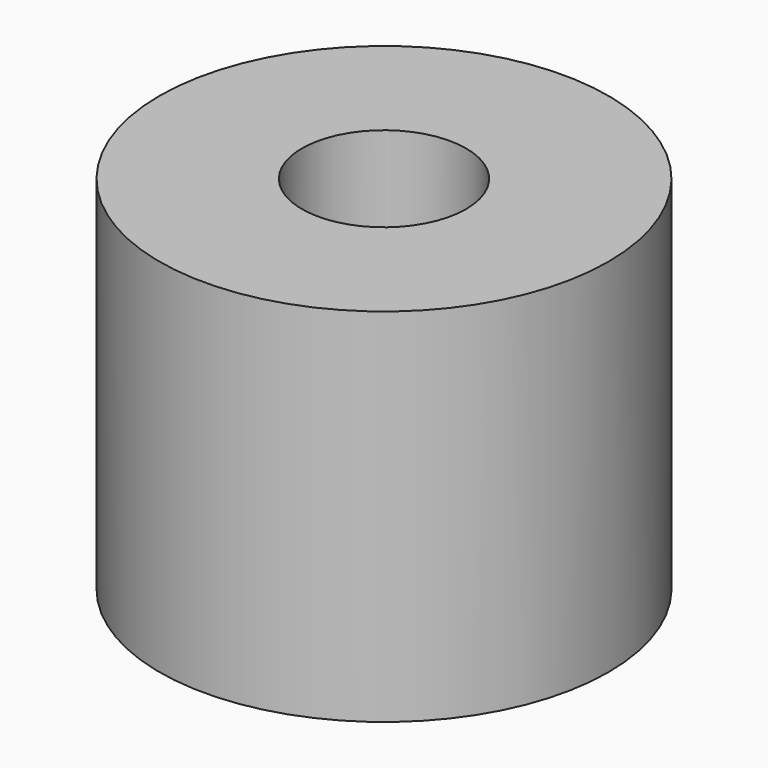
from build123d import *

# Parameters (mm, degrees)
CYLINDER223_R     = 1.5
CYLINDER223_DEPTH = 10
CYLINDER224_R     = 4.1
CYLINDER224_DEPTH = 6.6


with BuildPart() as cylinder223:
    # Cylinder223 → Cylinder223 (new body)
    with BuildSketch(Plane.XY.offset(-1.9)):
        Circle(CYLINDER223_R)
    extrude(amount=CYLINDER223_DEPTH)


with BuildPart() as cut161:
    # Cylinder224 → Cylinder224 (new body)
    with BuildSketch(Plane.XY):
        Circle(CYLINDER224_R)
    extrude(amount=CYLINDER224_DEPTH)

    # Cut161: cut Cylinder223
    add(cylinder223.part, mode=Mode.SUBTRACT)


with BuildPart() as cut161_1:
    # Cut161 placement: moved
    add(cut161.part.moved(Location((76.8, 197.2, 74.5))))


solid = cut161_1.part
